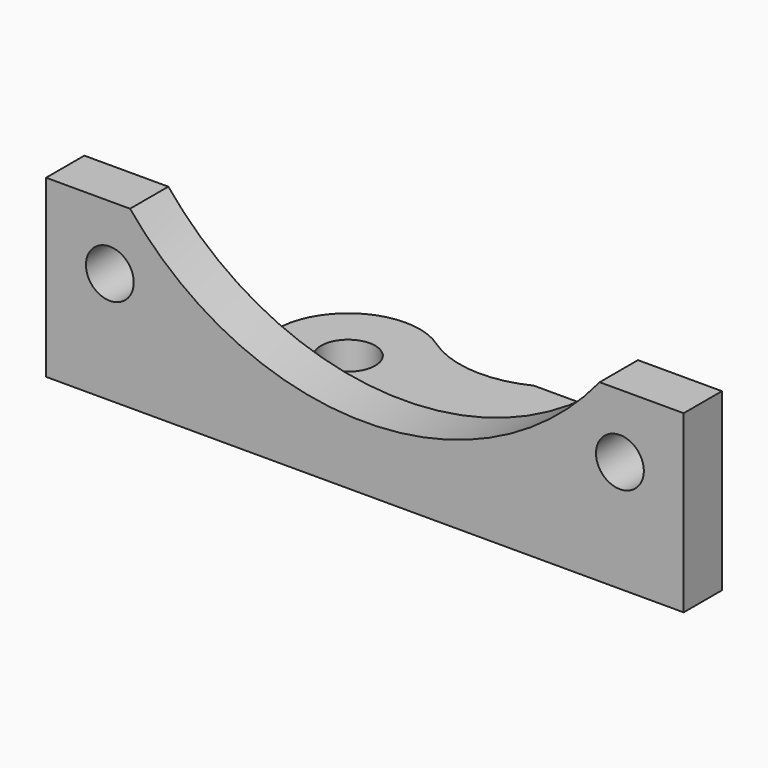
from build123d import *

# Parameters (mm, degrees)
F0_R     = 1.7
F1_DEPTH = 1.5
F2_R     = 1.7
F3_DEPTH = 1.5
F5_DEPTH = 8
F6_R     = 19
F6_R_2   = 1.5
F7_DEPTH = 3.001


with BuildPart() as f1:
    # F0 (on Top) → F1 (new body)
    with BuildSketch(Plane.XY):
        Polygon((3.421573, -3.5), (-3.421573, -3.5), (-9.078427, -3.5), (-20, -3.5), (-20, -6.5), (20, -6.5), (20, -3.5), (9.078427, -3.5), align=None)
        with BuildLine():
            Line((-9.078427, -3.5), (-3.421573, -3.5))
            ThreePointArc((-3.421573, -3.5), (-1.752972, 0.163508), (-3.683219, 3.696165))
            ThreePointArc((-3.683219, 3.696165), (-9.85046, 2.699387), (-9.078427, -3.5))
        make_face()
        with Locations((-6.25, 0)):
            Circle(F0_R, mode=Mode.SUBTRACT)
        with BuildLine():
            ThreePointArc((-3.683219, 3.696165), (-1.752972, 0.163508), (-3.421573, -3.5))
            Line((-3.421573, -3.5), (3.421573, -3.5))
            ThreePointArc((3.421573, -3.5), (1.755629, -0.225008), (3.086142, 3.2))
            Line((3.086142, 3.2), (2.838445, 3.2))
            ThreePointArc((2.838445, 3.2), (-0.489853, 2.561303), (-3.683219, 3.696165))
        make_face()
        with BuildLine():
            ThreePointArc((3.086142, 3.2), (1.755629, -0.225008), (3.421573, -3.5))
            Line((3.421573, -3.5), (9.078427, -3.5))
            ThreePointArc((9.078427, -3.5), (10.744371, -0.225008), (9.413858, 3.2))
            Line((9.413858, 3.2), (3.086142, 3.2))
        make_face()
        with Locations((6.25, 0)):
            Circle(F0_R, mode=Mode.SUBTRACT)
        with BuildLine():
            ThreePointArc((3.683219, 3.696165), (3.270255, 3.432038), (2.838445, 3.2))
            Line((2.838445, 3.2), (3.086142, 3.2))
            Line((3.086142, 3.2), (9.413858, 3.2))
            ThreePointArc((9.413858, 3.2), (6.638163, 4.483228), (3.683219, 3.696165))
        make_face()
    extrude(amount=F1_DEPTH)

    # F2 (on face) → F3 (join)
    with BuildSketch(Plane.XY.offset(1.5)):
        with BuildLine():
            Line((-9.078427, -3.5), (-3.421573, -3.5))
            ThreePointArc((-3.421573, -3.5), (-1.752972, 0.163508), (-3.683219, 3.696165))
            ThreePointArc((-3.683219, 3.696165), (-9.85046, 2.699387), (-9.078427, -3.5))
        make_face()
        with Locations((-6.25, 0)):
            Circle(F2_R, mode=Mode.SUBTRACT)
        with BuildLine():
            ThreePointArc((-3.683219, 3.696165), (-1.752972, 0.163508), (-3.421573, -3.5))
            Line((-3.421573, -3.5), (3.421573, -3.5))
            ThreePointArc((3.421573, -3.5), (1.755629, -0.225008), (3.086142, 3.2))
            Line((3.086142, 3.2), (2.838445, 3.2))
            ThreePointArc((2.838445, 3.2), (-0.489853, 2.561303), (-3.683219, 3.696165))
        make_face()
        with BuildLine():
            ThreePointArc((3.086142, 3.2), (1.755629, -0.225008), (3.421573, -3.5))
            Line((3.421573, -3.5), (9.078427, -3.5))
            ThreePointArc((9.078427, -3.5), (10.744371, -0.225008), (9.413858, 3.2))
            Line((9.413858, 3.2), (3.086142, 3.2))
        make_face()
        with Locations((6.25, 0)):
            Circle(F2_R, mode=Mode.SUBTRACT)
        Polygon((3.421573, -3.5), (-3.421573, -3.5), (-9.078427, -3.5), (-20, -3.5), (-20, -6.5), (20, -6.5), (20, -3.5), (9.078427, -3.5), align=None)
    extrude(amount=F3_DEPTH)

    # F4 (on face) → F5 (join)
    with BuildSketch(Plane.XY.offset(3)):
        Polygon((3.421573, -3.5), (-3.421573, -3.5), (-9.078427, -3.5), (-20, -3.5), (-20, -6.5), (20, -6.5), (20, -3.5), (9.078427, -3.5), align=None)
    extrude(amount=F5_DEPTH)

    # F6 (on face) → F7 (cut, through all)
    with BuildSketch(Plane(origin=(0, -3.5, 0), x_dir=(-1, 0, 0), z_dir=(0, 1, 0))):
        with Locations((0, 23)):
            Circle(F6_R)
        with Locations((-16, 7)):
            Circle(F6_R_2)
        with Locations((16, 7)):
            Circle(F6_R_2)
    extrude(amount=-F7_DEPTH, mode=Mode.SUBTRACT)


solid = f1.part
